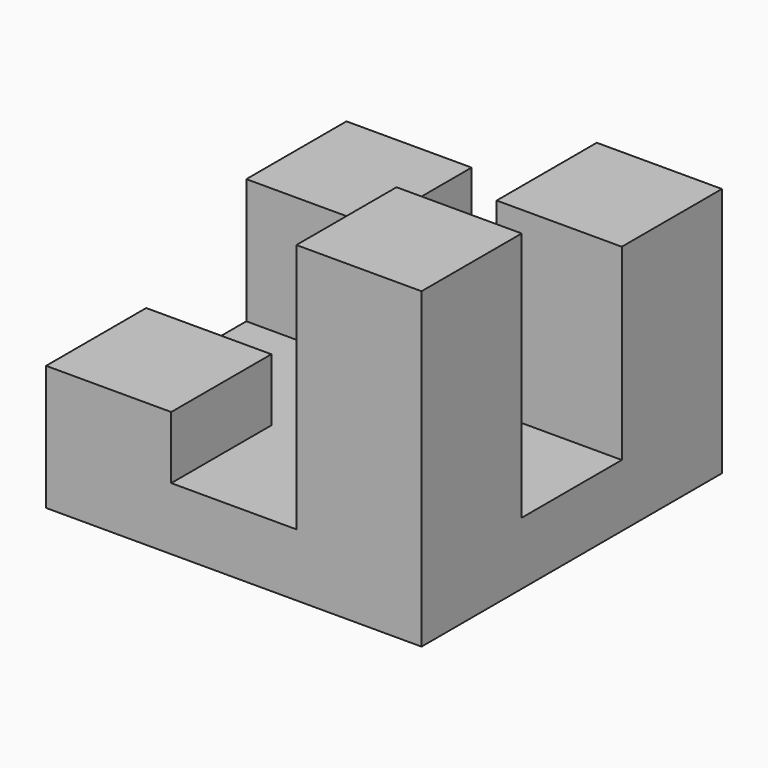
from build123d import *

# Parameters (mm, degrees)
F0_W     = 76.2
F0_H     = 76.2
F1_DEPTH = 12.7
F2_W     = 25.4
F2_H     = 25.4
F3_DEPTH = 12.7
F4_W     = 25.4
F4_H     = 25.4
F5_DEPTH = 25.4
F6_W     = 25.4
F6_H     = 25.4
F7_DEPTH = 38.1
F8_W     = 25.4
F8_H     = 25.4
F9_DEPTH = 50.8


with BuildPart() as f1:
    # F0 (on Top) → F1 (new body)
    with BuildSketch(Plane.XY):
        with Locations((-0.486679, 3.491431)):
            Rectangle(F0_W, F0_H)
    extrude(amount=F1_DEPTH)

    # F2 (on face) → F3 (join)
    with BuildSketch(Plane.XY.offset(12.7)):
        with Locations((-25.886679, -21.908569)):
            Rectangle(F2_W, F2_H)
    extrude(amount=F3_DEPTH)

    # F6 (on face) → F7 (join)
    with BuildSketch(Plane.XY.offset(12.7)):
        with Locations((24.913321, 28.891431)):
            Rectangle(F6_W, F6_H)
    extrude(amount=F7_DEPTH)

    # F8 (on face) → F9 (join)
    with BuildSketch(Plane.XY.offset(12.7)):
        with Locations((24.913321, -21.908569)):
            Rectangle(F8_W, F8_H)
    extrude(amount=F9_DEPTH)


with BuildPart() as f5:
    # F4 (on face) → F5 (new body)
    with BuildSketch(Plane.XY.offset(12.7)):
        with Locations((-25.886679, 28.891431)):
            Rectangle(F4_W, F4_H)
    extrude(amount=F5_DEPTH)


solid = Compound([f1.part, f5.part])
